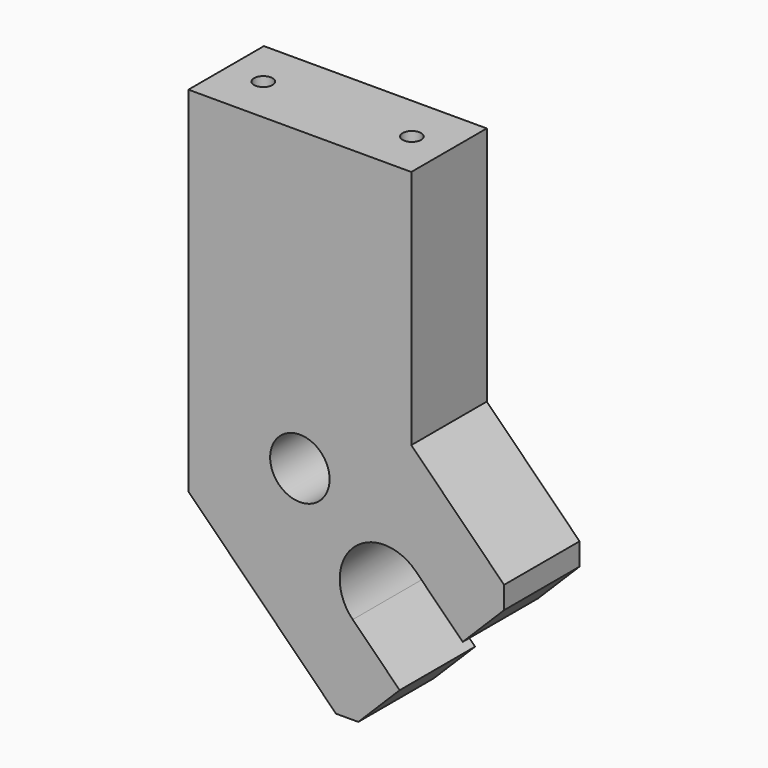
from build123d import *

# Parameters (mm, degrees)
SKETCH_R    = 4
PAD_DEPTH   = 6.35
SKETCH001_R = 1.25
HOLE_DEPTH  = 10
HOLE_TIPS_R = 1.25


with BuildPart() as part:
    # Sketch → Pad (new body, symmetric)
    with BuildSketch(Plane.XZ):
        with BuildLine():
            Line((-15, -7.62744), (-15, 40))
            Line((-15, 40), (15, 40))
            Line((15, 7.627403), (15, 40))
            Line((15, 7.627403), (27.491385, -4.863982))
            Line((27.491385, -4.863982), (27.491385, -7.863982))
            Line((27.491385, -7.863982), (21.920307, -13.435044))
            Line((15.605634, -7.120352), (21.920307, -13.435044))
            ThreePointArc((15.605634, -7.120352), (7.120352, -7.12034), (7.12034, -15.605621))
            Line((7.12034, -15.605621), (13.435014, -21.920313))
            Line((13.435014, -21.920313), (7.863944, -27.491383))
            Line((7.863944, -27.491383), (4.863944, -27.491383))
            Line((4.863944, -27.491383), (-15, -7.62744))
        make_face()
        Circle(SKETCH_R, mode=Mode.SUBTRACT)
    extrude(amount=PAD_DEPTH, both=True)

    # Sketch001 (on Face7 of Pad) → Hole (cut)
    with BuildSketch(Plane(origin=(0, 0, 40), x_dir=(-1, 0, 0), z_dir=(0, 0, 1))):
        with Locations((-10, 0)):
            Circle(SKETCH001_R)
        with Locations((10, 0)):
            Circle(SKETCH001_R)
    extrude(amount=-HOLE_DEPTH, mode=Mode.SUBTRACT)

    # Hole tips → Hole tip 1 section 0
    with BuildSketch(Plane(origin=(0, 0, 30), x_dir=(-1, 0, 0), z_dir=(0, 0, 1)), mode=Mode.PRIVATE) as hole_tip_1_s0:
        with Locations((-10, 0)):
            Circle(HOLE_TIPS_R)
    loft([hole_tip_1_s0.sketch, Vertex(10, 0, 29.248924)], mode=Mode.SUBTRACT)

    # Hole tips → Hole tip 2 section 0
    with BuildSketch(Plane(origin=(0, 0, 30), x_dir=(-1, 0, 0), z_dir=(0, 0, 1)), mode=Mode.PRIVATE) as hole_tip_2_s0:
        with Locations((10, 0)):
            Circle(HOLE_TIPS_R)
    loft([hole_tip_2_s0.sketch, Vertex(-10, 0, 29.248924)], mode=Mode.SUBTRACT)


solid = part.part
